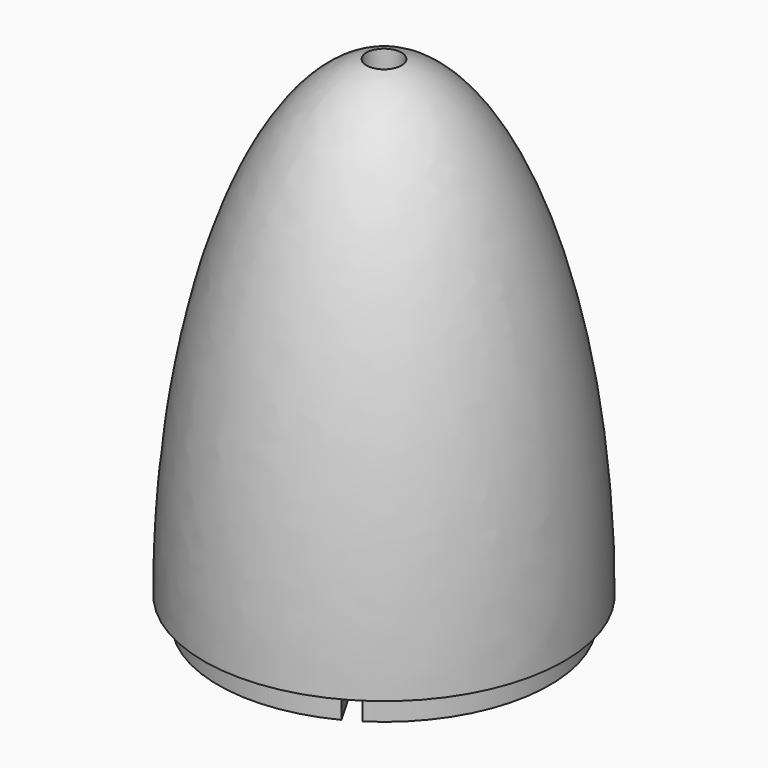
from build123d import *

# Parameters (mm, degrees)
SKETCH002_R          = 10
PAD_DEPTH            = 5
SKETCH003_R          = 32.2
SKETCH003_R_2        = 13
PAD001_DEPTH         = 5
SKETCH004_W          = 28.033752
SKETCH004_H          = 3.25
POCKET_DEPTH         = 5
POLARPATTERN_COUNT   = 3
SKETCH001_R          = 3.4
POCKET001_DEPTH      = 200
POCKET001_DEPTH_BACK = -5


with BuildPart() as part:
    # Sketch → Revolution (revolve)
    with BuildSketch(Plane.XZ):
        with BuildLine():
            add(Edge.make_bspline(
                [(35, 0), (35, 92), (0, 92)],
                knots=[4.712389, 4.712389, 4.712389, 6.283185, 6.283185, 6.283185], degree=2, weights=[1, 0.707107, 1]))
            Line((0, 92), (0, 0))
            Line((0, 0), (35, 0))
        make_face()
    revolve(axis=Axis((0, 0, 0), (0, 0, 1)))

    # Sketch002 (on Face2 of Revolution) → Pad (new body)
    with BuildSketch(Plane(origin=(0, 0, 0), x_dir=(1, 0, 0), z_dir=(0, 0, -1))):
        Circle(SKETCH002_R)
    extrude(amount=PAD_DEPTH)

    # Sketch003 (on Face2 of Pad) → Pad001 (join)
    with BuildSketch(Plane(origin=(0, 0, 0), x_dir=(1, 0, 0), z_dir=(0, 0, -1))):
        Circle(SKETCH003_R)
        Circle(SKETCH003_R_2, mode=Mode.SUBTRACT)
    extrude(amount=PAD001_DEPTH)

    # Sketch004 (on Face4 of Pad001) → Pocket (cut)
    with BuildSketch(Plane(origin=(0, 0, -5), x_dir=(1, 0, 0), z_dir=(0, 0, -1))):
        with Locations((-25.270624, 0)):
            Rectangle(SKETCH004_W, SKETCH004_H)
    pocket = extrude(amount=-POCKET_DEPTH, mode=Mode.SUBTRACT)

    # PolarPattern: Pocket ×3 about axis
    polarpattern_axis = Axis((0, 0, -5), (0, 0, -1))
    for i in range(1, POLARPATTERN_COUNT):
        add(pocket.rotate(polarpattern_axis, i * 360 / POLARPATTERN_COUNT), mode=Mode.SUBTRACT)

    # Sketch001 (on Face2 of Revolution) → Pocket001 (cut, two sides)
    with BuildSketch(Plane(origin=(0, 0, 0), x_dir=(1, 0, 0), z_dir=(0, 0, -1))) as pocket001_sk:
        Circle(SKETCH001_R)
    extrude(amount=-POCKET001_DEPTH, mode=Mode.SUBTRACT)
    extrude(pocket001_sk.sketch, amount=-POCKET001_DEPTH_BACK, mode=Mode.SUBTRACT)


solid = part.part
